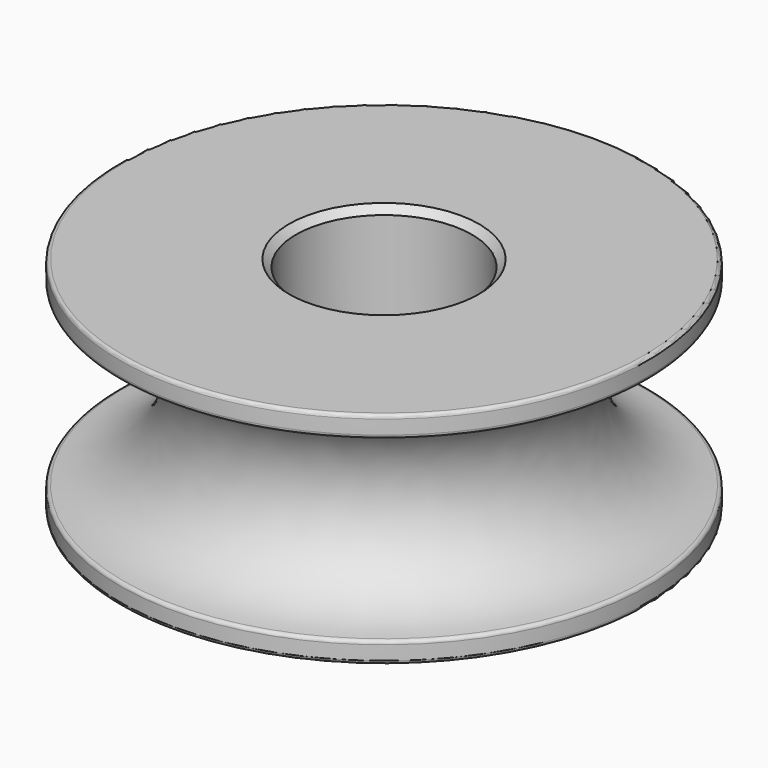
from build123d import *

# Parameters (mm, degrees)
CHAMFER_SIZE         = 0.508
FILLET_R             = 0.254
BODY_PLACEMENT_ANGLE = 90


with BuildPart() as part:
    # Sketch → Revolution (revolve)
    with BuildSketch(Plane.XY):
        with BuildLine():
            Line((7.9375, 6.35), (7.9375, 19.05))
            Line((7.9375, 19.05), (6.4135, 19.05))
            ThreePointArc((-6.4135, 19.05), (0, 12.6365), (6.4135, 19.05))
            Line((-7.9375, 19.05), (-6.4135, 19.05))
            Line((-7.9375, 19.05), (-7.9375, 6.35))
            Line((-7.9375, 6.35), (7.9375, 6.35))
        make_face()
    revolve(axis=Axis((0, 0, 0), (1, 0, 0)))

    # Chamfer
    chamfer_edges = [part.edges().sort_by_distance(p)[0] for p in [
        (-7.9375, -6.35, 0),
        (7.9375, -6.35, 0),
        (0, 6.35, 0),
    ]]
    chamfer(chamfer_edges, length=CHAMFER_SIZE)

    # Fillet
    fillet_edges = [part.edges().sort_by_distance(p)[0] for p in [
        (7.9375, -19.05, 0),
        (6.4135, -19.05, 0),
        (-6.4135, -19.05, 0),
        (-7.9375, -19.05, 0),
    ]]
    fillet(fillet_edges, radius=FILLET_R)


with BuildPart() as part_1:
    # Body placement: moved
    add(part.part.rotate(Axis((0, 0, 0), (0, 1, 0)), BODY_PLACEMENT_ANGLE))


solid = part_1.part
